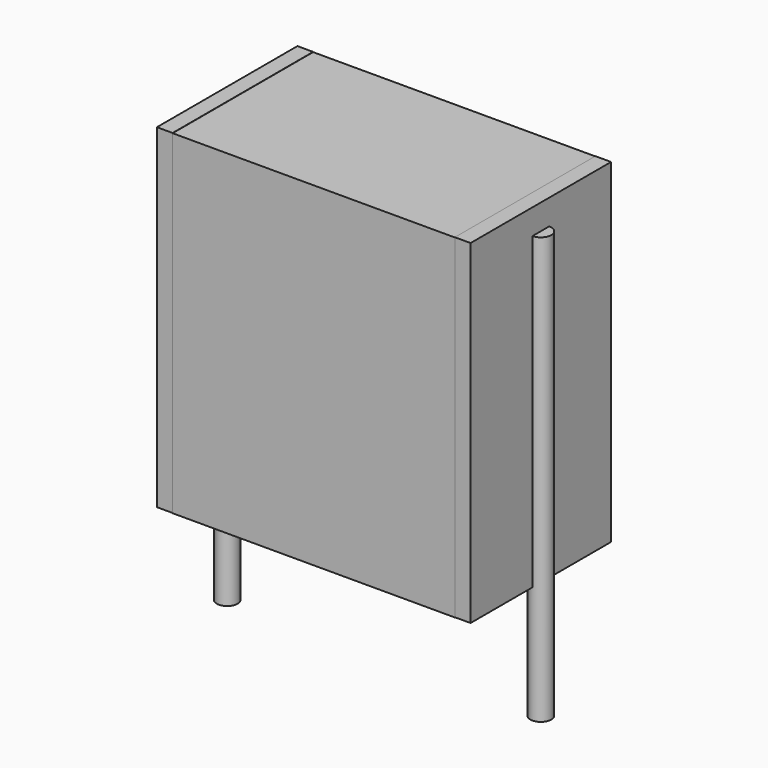
from build123d import *

# Parameters (mm, degrees)
SKETCH_W          = 6.75
SKETCH_H          = 4.2
PAD_DEPTH         = 8
SKETCH001_R       = 0.25
PAD001_DEPTH      = 7
PAD001_DEPTH_BACK = 3.2
SKETCH002_W       = 0.375
SKETCH002_H       = 4.2
PAD002_DEPTH      = 8


with BuildPart() as pad:
    # Sketch → Pad (new body)
    with BuildSketch(Plane.XY.offset(0.1)):
        with Locations((3.75, 0)):
            Rectangle(SKETCH_W, SKETCH_H)
    extrude(amount=PAD_DEPTH)


with BuildPart() as pad001:
    # Sketch001 → Pad001 (new body, two sides)
    with BuildSketch(Plane.XY.offset(0.5)) as pad001_sk:
        Circle(SKETCH001_R)
        with Locations((7.5, 0)):
            Circle(SKETCH001_R)
    extrude(amount=PAD001_DEPTH)
    extrude(pad001_sk.sketch, amount=-PAD001_DEPTH_BACK)


with BuildPart() as pad002:
    # Sketch002 → Pad002 (new body)
    with BuildSketch(Plane.XY.offset(0.105)):
        with Locations((0.1875, 0)):
            Rectangle(SKETCH002_W, SKETCH002_H)
        with Locations((7.3125, 0)):
            Rectangle(SKETCH002_W, SKETCH002_H)
    extrude(amount=PAD002_DEPTH)


solid = Compound([pad.part, pad001.part, pad002.part])
